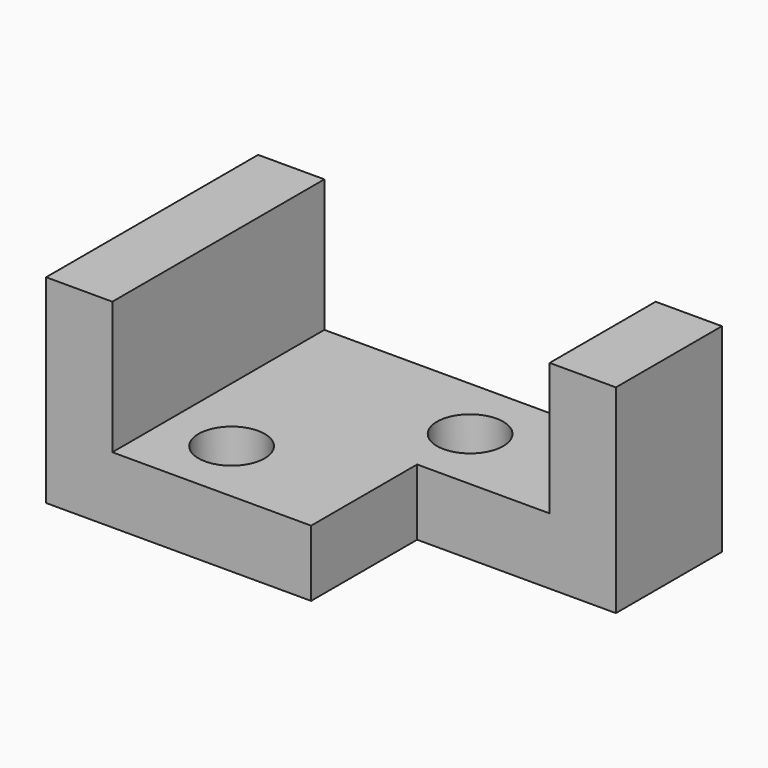
from build123d import *

# Parameters (mm, degrees)
F0_W     = 88.9
F0_H     = 38.1
F1_DEPTH = 50.8
F2_W     = 63.5
F2_H     = 25.4
F3_DEPTH = 50.801
F4_W     = 38.1
F4_H     = 25.4
F5_DEPTH = 38.101
F6_R     = 6.35
F7_DEPTH = 12.701
F8_R     = 6.35
F9_DEPTH = 12.701


with BuildPart() as f1:
    # F0 (on Front) → F1 (new body)
    with BuildSketch(Plane.XZ):
        Rectangle(F0_W, F0_H)
    extrude(amount=F1_DEPTH)

    # F2 (on face) → F3 (cut, through all)
    with BuildSketch(Plane.XZ.offset(50.8)):
        with Locations((0, 6.35)):
            Rectangle(F2_W, F2_H)
    extrude(amount=-F3_DEPTH, mode=Mode.SUBTRACT)

    # F4 (on face) → F5 (cut, through all)
    with BuildSketch(Plane.XY.offset(19.05)):
        with Locations((25.4, -38.1)):
            Rectangle(F4_W, F4_H)
    extrude(amount=-F5_DEPTH, mode=Mode.SUBTRACT)

    # F6 (on face) → F7 (cut, through all)
    with BuildSketch(Plane.XY.offset(-6.35)):
        with Locations((6.35, -12.7)):
            Circle(F6_R)
    extrude(amount=-F7_DEPTH, mode=Mode.SUBTRACT)

    # F8 (on face) → F9 (cut, through all)
    with BuildSketch(Plane.XY.offset(-6.35)):
        with Locations((-19.05, -38.1)):
            Circle(F8_R)
    extrude(amount=-F9_DEPTH, mode=Mode.SUBTRACT)


solid = f1.part
